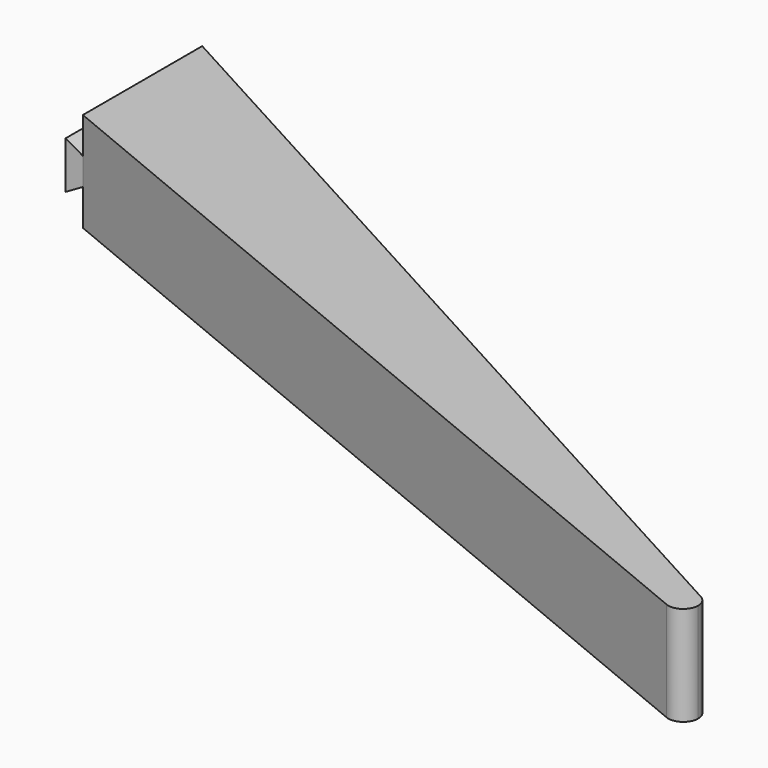
from build123d import *

# Parameters (mm, degrees)
F1_DEPTH = 20
F3_DEPTH = 30


with BuildPart() as f1:
    # F0 (on Top) → F1 (new body)
    with BuildSketch(Plane.XY):
        with BuildLine():
            Line((0, 30), (0, 0))
            Line((0, 0), (175.537111, -72.709852))
            ThreePointArc((175.537111, -72.709852), (173.979064, -68.643209), (178.123395, -67.305442))
            Line((178.123395, -67.305442), (0, 30))
        make_face()
        with BuildLine():
            ThreePointArc((178.123395, -67.305442), (173.979064, -68.643209), (175.537111, -72.709852))
            ThreePointArc((175.537111, -72.709852), (178.351872, -72.432622), (179.685161, -69.938214))
            ThreePointArc((179.685161, -69.938214), (179.265346, -68.407642), (178.123395, -67.305442))
        make_face()
    extrude(amount=F1_DEPTH)

    # F2 (on Front) → F3 (join)
    with BuildSketch(Plane.XZ):
        Polygon((0, 7.25), (0, 12.75), (-3.464102, 14.75), (-3.464102, 5.25), align=None)
    extrude(amount=-F3_DEPTH)


solid = f1.part
